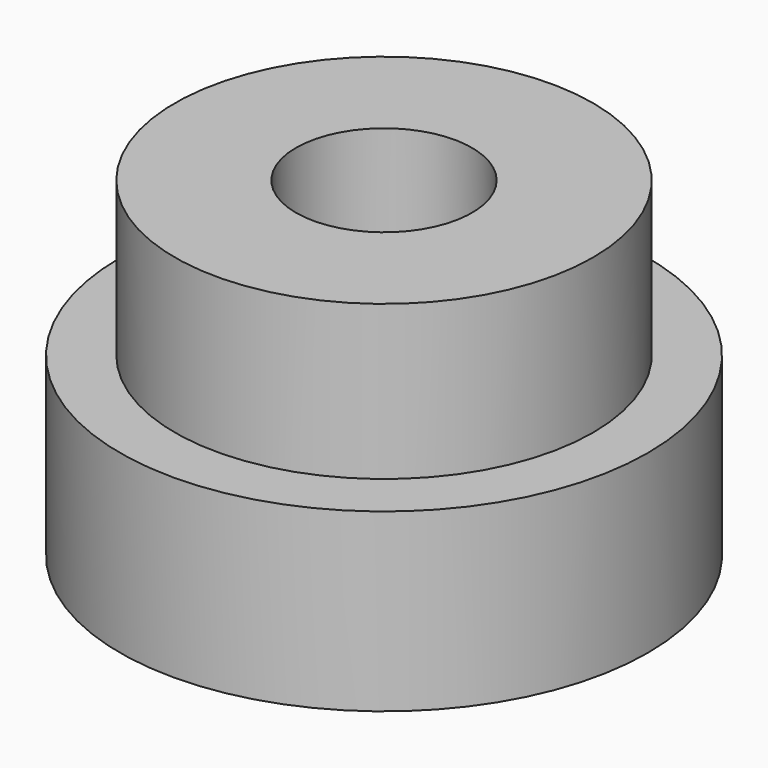
from build123d import *

# Parameters (mm, degrees)
F0_R     = 19.05
F1_DEPTH = 12.7
F2_R     = 15.0876
F3_DEPTH = 11.1252
F5_D     = 12.7
F5_2_D   = 12.7


with BuildPart() as f1:
    # F0 (on Top) → F1 (new body)
    with BuildSketch(Plane.XY):
        Circle(F0_R)
    extrude(amount=F1_DEPTH)

    # F5 (through all)
    with Locations(Plane(origin=(0, 0, 0), x_dir=(1, 0, 0), z_dir=(0, 0, -1))):
        with Locations((0, 0)):
            Hole(F5_D / 2)


with BuildPart() as f3:
    # F2 (on face) → F3 (new body)
    with BuildSketch(Plane.XY.offset(12.7)):
        Circle(F2_R)
    extrude(amount=F3_DEPTH)

    # F5#2 (through all)
    with Locations(Plane(origin=(0, 0, 0), x_dir=(1, 0, 0), z_dir=(0, 0, -1))):
        with Locations((0, 0)):
            Hole(F5_2_D / 2)


solid = Compound([f1.part, f3.part])
